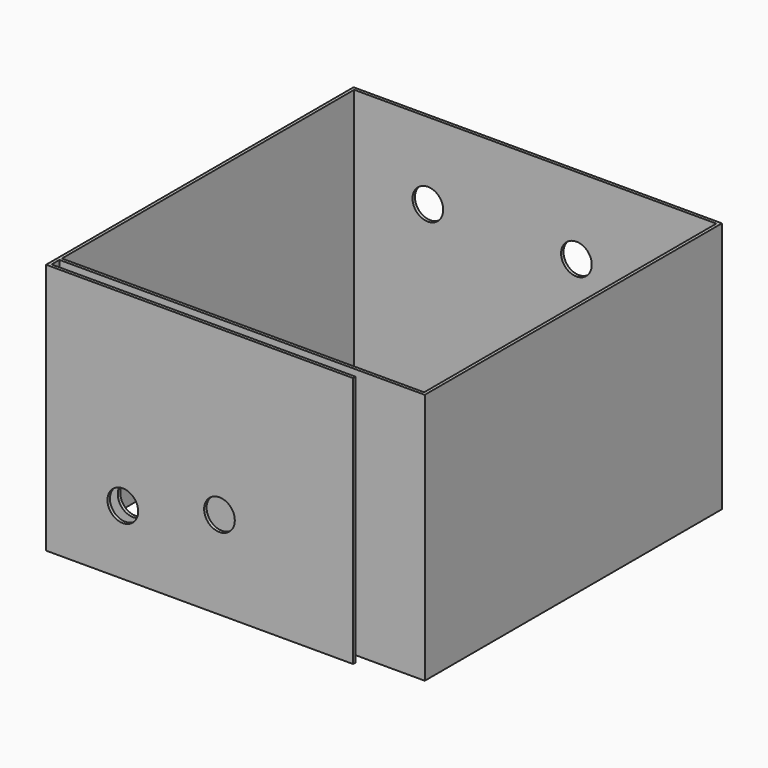
from build123d import *

# Parameters (mm, degrees)
F0_W      = 600
F0_H      = 410
F1_DEPTH  = 5
F3_W      = 5
F3_H      = 410
F4_DEPTH  = 600
F5_W      = 5
F5_H      = 410
F6_DEPTH  = 591
F7_R      = 25
F8_DEPTH  = 25.4
F2_R      = 25
F9_DEPTH  = 25.4
F10_DEPTH = 25.4
F11_DEPTH = 25.4
F2_W      = 5
F2_H      = 410
F12_DEPTH = 21
F13_W     = 5
F13_H     = 410
F14_DEPTH = 495
F15_DEPTH = 76.2
F16_DEPTH = 25.4


with BuildPart() as f1:
    # F0 (on Front) → F1 (new body)
    with BuildSketch(Plane.XZ):
        with Locations((176.868889, 105.440454)):
            Rectangle(F0_W, F0_H)
    extrude(amount=F1_DEPTH)

    # F3 (on face) → F4 (join)
    with BuildSketch(Plane(origin=(0, 0, 0), x_dir=(-1, 0, 0), z_dir=(0, 1, 0))):
        with Locations((-474.368889, 105.440454)):
            Rectangle(F3_W, F3_H)
        with Locations((120.631111, 105.440454)):
            Rectangle(F3_W, F3_H)
    extrude(amount=F4_DEPTH)

    # F5 (on face) → F6 (join)
    with BuildSketch(Plane(origin=(471.868889, 0, 0), x_dir=(0, -1, 0), z_dir=(-1, 0, 0))):
        with Locations((-597.5, 105.440454)):
            Rectangle(F5_W, F5_H)
    extrude(amount=F6_DEPTH)

    # F7 (on face) → F8 (cut)
    with BuildSketch(Plane(origin=(0, 600, 0), x_dir=(-1, 0, 0), z_dir=(0, 1, 0))):
        with Locations((-1.868889, 185.440454)):
            Circle(F7_R)
        with Locations((-243.868889, 185.440454)):
            Circle(F7_R)
    extrude(amount=-F8_DEPTH, mode=Mode.SUBTRACT)

    # F2 (on face) → F9 (cut)
    with BuildSketch(Plane.XZ.offset(5)):
        with Locations((1.868889, 185.440454)):
            Circle(F2_R)
    extrude(amount=-F9_DEPTH, mode=Mode.SUBTRACT)

    # F2 (on face) → F10 (cut)
    with BuildSketch(Plane.XZ.offset(5)):
        with Locations((243.868889, 185.440454)):
            Circle(F2_R)
    extrude(amount=-F10_DEPTH, mode=Mode.SUBTRACT)

    # F2 (on face) → F11 (cut)
    with BuildSketch(Plane.XZ.offset(5)):
        with Locations((1.868889, 5.440454)):
            Circle(F2_R)
    extrude(amount=-F11_DEPTH, mode=Mode.SUBTRACT)

    # F2 (on face) → F12 (join)
    with BuildSketch(Plane.XZ.offset(5)):
        with Locations((-120.631111, 105.440454)):
            Rectangle(F2_W, F2_H)
    extrude(amount=F12_DEPTH)

    # F13 (on face) → F14 (join)
    with BuildSketch(Plane.YZ.offset(-118.131111)):
        with Locations((-23.5, 105.440454)):
            Rectangle(F13_W, F13_H)
    extrude(amount=F14_DEPTH)

    # F2 (on face) → F15 (cut)
    with BuildSketch(Plane.XZ.offset(5)):
        with Locations((1.868889, 5.440454)):
            Circle(F2_R)
    extrude(amount=F15_DEPTH, mode=Mode.SUBTRACT)

    # F2 (on face) → F16 (cut)
    with BuildSketch(Plane.XZ.offset(5)):
        with Locations((159.266515, 43.780868)):
            Circle(F2_R)
    extrude(amount=F16_DEPTH, mode=Mode.SUBTRACT)


solid = f1.part
